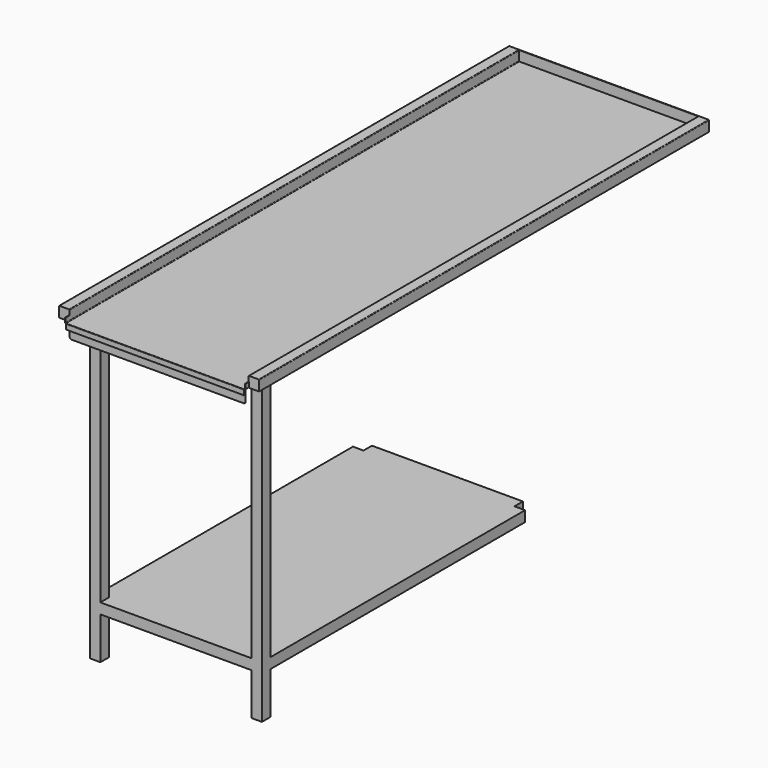
from build123d import *

# Parameters (mm, degrees)
F1_DEPTH  = 1600
F3_DEPTH  = 1.5
F5_DEPTH  = 13.5
F6_W      = 507
F6_H      = 1.5
F7_ANGLE  = 90
F8_W      = 507
F8_H      = 1.5
F9_DEPTH  = 13.5
F10_W     = 1.5
F10_H     = 28.5
F12_W     = 1.5
F12_H     = 28.5
F15_DEPTH = 1.5
F16_W     = 500
F16_H     = 1.5
F17_DEPTH = 38.5
F18_R     = 5
F19_W     = 30
F19_H     = 30
F20_DEPTH = 865.5
F21_W     = 490
F21_H     = 30
F22_DEPTH = 936.5
F23_W     = 430
F23_H     = 30
F24_DEPTH = 30


with BuildPart() as f1:
    # F0 (on Front) → F1 (new body)
    with BuildSketch(Plane.XZ):
        with BuildLine():
            Line((-285, 28.5), (-285, 0))
            Line((-285, 0), (-283.5, 0))
            Line((-283.5, 0), (-283.5, 28.5))
            Line((-283.5, 28.5), (-256.5, 28.5))
            Line((-256.5, 28.5), (-256.5, 3))
            ThreePointArc((-256.5, 3), (-255.6213203436, 0.8786796564), (-253.5, 0))
            Line((-253.5, 0), (253.5, 0))
            ThreePointArc((253.5, 0), (255.6213203436, 0.8786796564), (256.5, 3))
            Line((256.5, 3), (256.5, 28.5))
            Line((256.5, 28.5), (283.5, 28.5))
            Line((283.5, 28.5), (283.5, 0))
            Line((283.5, 0), (285, 0))
            Line((285, 0), (285, 28.5))
            ThreePointArc((285, 28.5), (284.5606601718, 29.5606601718), (283.5, 30))
            Line((283.5, 30), (256.5, 30))
            ThreePointArc((256.5, 30), (255.4393398282, 29.5606601718), (255, 28.5))
            Line((255, 28.5), (255, 3))
            ThreePointArc((255, 3), (254.5606601718, 1.9393398282), (253.5, 1.5))
            Line((253.5, 1.5), (-253.5, 1.5))
            ThreePointArc((-253.5, 1.5), (-254.5606601718, 1.9393398282), (-255, 3))
            Line((-255, 3), (-255, 28.5))
            ThreePointArc((-255, 28.5), (-255.4393398282, 29.5606601718), (-256.5, 30))
            Line((-256.5, 30), (-283.5, 30))
            ThreePointArc((-283.5, 30), (-284.5606601718, 29.5606601718), (-285, 28.5))
        make_face()
    extrude(amount=F1_DEPTH)

    # F2 (on face) → F3 (join)
    with BuildSketch(Plane(origin=(0, 0, 0), x_dir=(-1, 0, 0), z_dir=(0, 1, 0))):
        with BuildLine():
            ThreePointArc((-283.5, 30), (-284.5606601718, 29.5606601718), (-285, 28.5))
            Line((-285, 28.5), (-285, 0))
            Line((-285, 0), (285, 0))
            Line((285, 0), (285, 28.5))
            ThreePointArc((285, 28.5), (284.5606601718, 29.5606601718), (283.5, 30))
            Line((283.5, 30), (-283.5, 30))
        make_face()
    extrude(amount=F3_DEPTH)

    # F4 (on face) → F5 (join)
    with BuildSketch(Plane.XZ.offset(1600)):
        with BuildLine():
            ThreePointArc((253.5, 0), (255.6213203436, 0.8786796564), (256.5, 3))
            Line((256.5, 3), (256.5, 15))
            Line((256.5, 15), (255, 15))
            Line((255, 15), (255, 3))
            ThreePointArc((255, 3), (254.5606601718, 1.9393398282), (253.5, 1.5))
            Line((253.5, 1.5), (-253.5, 1.5))
            ThreePointArc((-253.5, 1.5), (-254.5606601718, 1.9393398282), (-255, 3))
            Line((-255, 3), (-255, 15))
            Line((-255, 15), (-256.5, 15))
            Line((-256.5, 15), (-256.5, 3))
            ThreePointArc((-256.5, 3), (-255.6213203436, 0.8786796564), (-253.5, 0))
            Line((-253.5, 0), (253.5, 0))
        make_face()
    extrude(amount=F5_DEPTH)

    # F6 (on face) → F7 (revolve)
    with BuildSketch(Plane.XZ.offset(1613.5)):
        with Locations((0, 0.75)):
            Rectangle(F6_W, F6_H)
    revolve(axis=Axis((0, -1613.5, 0), (1, 0, 0)), revolution_arc=F7_ANGLE)

    # F8 (on face) → F9 (join)
    with BuildSketch(Plane(origin=(0, 0, 0), x_dir=(1, 0, 0), z_dir=(0, 0, -1))):
        with Locations((0, 1614.25)):
            Rectangle(F8_W, F8_H)
    extrude(amount=F9_DEPTH)

    # F10 (on face) → F11 (join, up to the next surface of F1)
    with BuildSketch(Plane(origin=(283.5, 0, 0), x_dir=(0, -1, 0), z_dir=(-1, 0, 0))):
        with Locations((1599.25, 14.25)):
            Rectangle(F10_W, F10_H)
    extrude(until=Until.NEXT)

    # F12 (on face) → F13 (join, up to the next surface of F1)
    with BuildSketch(Plane.YZ.offset(-283.5)):
        with Locations((-1599.25, 14.25)):
            Rectangle(F12_W, F12_H)
    extrude(until=Until.NEXT)

    # F14 (on face) → F15 (join)
    with BuildSketch(Plane(origin=(0, 0, 0), x_dir=(1, 0, 0), z_dir=(0, 0, -1))):
        with BuildLine():
            Line((250, 1570.5), (250, 1605.5))
            Line((250, 1605.5), (-250, 1605.5))
            Line((-250, 1605.5), (-250, 1570.5))
            ThreePointArc((-250, 1570.5), (-248.5355339059, 1566.9644660941), (-245, 1565.5))
            Line((-245, 1565.5), (245, 1565.5))
            ThreePointArc((245, 1565.5), (248.5355339059, 1566.9644660941), (250, 1570.5))
        make_face()
    extrude(amount=F15_DEPTH)

    # F16 (on face) → F17 (join)
    with BuildSketch(Plane(origin=(0, 0, -1.5), x_dir=(1, 0, 0), z_dir=(0, 0, -1))):
        with Locations((0, 1604.75)):
            Rectangle(F16_W, F16_H)
    extrude(amount=F17_DEPTH)

    # F18
    f18_edges = [f1.edges().sort_by_distance(p)[0] for p in [
        (-250, -1604.75, -40),
        (250, -1604.75, -40),
    ]]
    fillet(f18_edges, radius=F18_R)

    # F19 (on face) → F20 (join)
    with BuildSketch(Plane(origin=(0, 0, 0), x_dir=(1, 0, 0), z_dir=(0, 0, -1))):
        with Locations((-230, 1525)):
            Rectangle(F19_W, F19_H)
        with Locations((230, 1525)):
            Rectangle(F19_W, F19_H)
    extrude(amount=F20_DEPTH)

    # F21 (on face) → F22 (join)
    with BuildSketch(Plane.XZ.offset(1540)):
        with Locations((0, -730.5)):
            Rectangle(F21_W, F21_H)
    extrude(amount=-F22_DEPTH)

    # F23 (on face) → F24 (join)
    with BuildSketch(Plane(origin=(0, -603.5, 0), x_dir=(-1, 0, 0), z_dir=(0, 1, 0))):
        with Locations((0, -730.5)):
            Rectangle(F23_W, F23_H)
    extrude(amount=F24_DEPTH)


solid = f1.part
